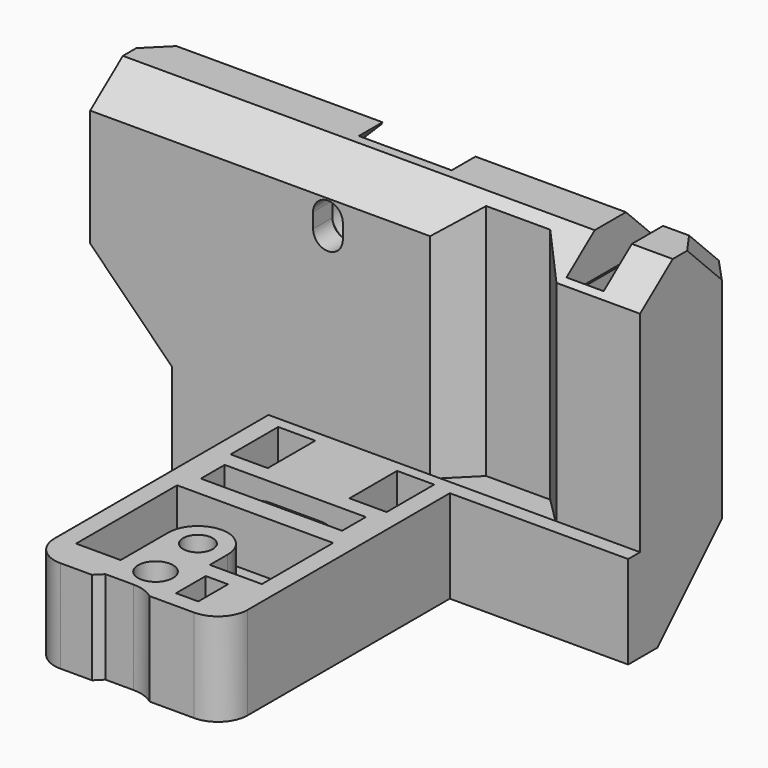
from build123d import *

# Parameters (mm, degrees)
PAD_DEPTH       = 45
SKETCH001_R     = 2
SKETCH001_R_2   = 2.35
SKETCH001_W     = 3
SKETCH001_H     = 5
SKETCH001_W_2   = 5
SKETCH001_H_2   = 15
POCKET_DEPTH    = 45.001
SKETCH002_W     = 45
SKETCH002_H     = 32.5
POCKET001_DEPTH = 74.001
POCKET002_DEPTH = 33
SKETCH004_R     = 2.35
POCKET003_DEPTH = 9
SKETCH005_W     = 47.5
SKETCH005_H     = 20
POCKET004_DEPTH = 4
POCKET005_DEPTH = 30
SKETCH007_W     = 19
SKETCH007_H     = 4
POCKET006_DEPTH = 3
POCKET007_DEPTH = 4
POCKET008_DEPTH = 55.751
POCKET009_DEPTH = 15
PAD001_DEPTH    = 9
POCKET010_DEPTH = 45.001
SKETCH013_R     = 2.75
POCKET011_DEPTH = 0.75
SKETCH014_R     = 2.75
POCKET012_DEPTH = 0.75
SKETCH015_W     = 24
SKETCH015_H     = 12.5
PAD002_DEPTH    = 2
POCKET013_DEPTH = 74.001
CHAMFER_SIZE    = 2
FILLET_R        = 4
CHAMFER001_SIZE = 1.5
CHAMFER002_SIZE = 1
FILLET001_R     = 3
FILLET002_R     = 5
FILLET003_R     = 3.99
FILLET004_R     = 4
POCKET014_DEPTH = 55.751
POCKET015_DEPTH = 2
CHAMFER003_SIZE = 1.49
SKETCH019_W     = 5
SKETCH019_H     = 8
POCKET016_DEPTH = 7


with BuildPart() as part:
    # Sketch → Pad (new body)
    with BuildSketch(Plane.XY):
        Polygon((74, -15.75), (74, 0), (0, 0), (0, -15.75), (24, -15.75), (24, -55.75), (50, -55.75), (50, -15.75), align=None)
    extrude(amount=PAD_DEPTH)

    # Sketch001 (on Face9 of Pad) → Pocket (cut, through all)
    with BuildSketch(Plane(origin=(0, 0, 0), x_dir=(1, 0, 0), z_dir=(0, 0, -1))):
        with Locations((36.5, 43.25)):
            Circle(SKETCH001_R)
        with Locations((37, 51)):
            Circle(SKETCH001_R_2)
        with Locations((43.25, 51)):
            Rectangle(SKETCH001_W, SKETCH001_H)
        Polygon((0, 8), (8, 0), (0, 0), align=None)
        with Locations((66, 7.5)):
            Rectangle(SKETCH001_W_2, SKETCH001_H_2)
    extrude(amount=-POCKET_DEPTH, mode=Mode.SUBTRACT)

    # Sketch002 (on Face1 of Pocket) → Pocket001 (cut, through all)
    with BuildSketch(Plane.YZ.offset(74)):
        with Locations((-38.25, 28.75)):
            Rectangle(SKETCH002_W, SKETCH002_H)
    extrude(amount=-POCKET001_DEPTH, mode=Mode.SUBTRACT)

    # Sketch003 (on Face4 of Pocket001) → Pocket002 (cut)
    with BuildSketch(Plane.XY.offset(45)):
        Polygon((45.75, -15.75), (49.9375, -11.5625), (58.5625, -11.5625), (62.75, -15.75), align=None)
    extrude(amount=-POCKET002_DEPTH, mode=Mode.SUBTRACT)

    # Sketch004 (on Face15 of Pocket002) → Pocket003 (cut)
    with BuildSketch(Plane(origin=(0, 0, 0), x_dir=(-1, 0, 0), z_dir=(0, 1, 0))):
        with Locations((-57, 21)):
            Circle(SKETCH004_R)
        with Locations((-17, 21)):
            Circle(SKETCH004_R)
        Polygon((-43.25, 45), (-53.25, 35), (-53.25, 0), (-20.75, 0), (-20.75, 35), (-30.75, 45), align=None)
    extrude(amount=-POCKET003_DEPTH, mode=Mode.SUBTRACT)

    # Sketch005 (on Face19 of Pocket003) → Pocket004 (cut)
    with BuildSketch(Plane(origin=(0, 0, 0), x_dir=(-1, 0, 0), z_dir=(0, 1, 0))):
        with Locations((-37, 35)):
            Rectangle(SKETCH005_W, SKETCH005_H)
    extrude(amount=-POCKET004_DEPTH, mode=Mode.SUBTRACT)

    # Sketch006 (on Face17 of Pocket004) → Pocket005 (cut)
    with BuildSketch(Plane(origin=(0, -9, 0), x_dir=(-1, 0, 0), z_dir=(0, 1, 0))):
        with BuildLine():
            ThreePointArc((-32.5, 4), (-37, 8.5), (-41.5, 4))
            Line((-41.5, 4), (-41.5, 0))
            ThreePointArc((-41.5, 0), (-37, -4.5), (-32.5, 0))
            Line((-32.5, 4), (-32.5, 0))
        make_face()
    extrude(amount=-POCKET005_DEPTH, mode=Mode.SUBTRACT)

    # Sketch007 (on Face4 of Pocket005) → Pocket006 (cut)
    with BuildSketch(Plane(origin=(0, 0, 0), x_dir=(1, 0, 0), z_dir=(0, 0, -1))):
        with Locations((37, 29.5)):
            Rectangle(SKETCH007_W, SKETCH007_H)
    extrude(amount=-POCKET006_DEPTH, mode=Mode.SUBTRACT)

    # Sketch008 (on Face23 of Pocket006) → Pocket007 (cut)
    with BuildSketch(Plane(origin=(0, -31.5, 0), x_dir=(-1, 0, 0), z_dir=(0, 1, 0))):
        Polygon((-43.5, 3), (-43.5, 10), (-30.5, 10), (-30.5, 3), (-27.5, 3), (-27.5, 12.5), (-46.5, 12.5), (-46.5, 3), align=None)
    extrude(amount=POCKET007_DEPTH, mode=Mode.SUBTRACT)

    # Sketch009 (on Face14 of Pocket007) → Pocket008 (cut, through all)
    with BuildSketch(Plane(origin=(0, 0, 0), x_dir=(-1, 0, 0), z_dir=(0, 1, 0))):
        Polygon((0, 25), (-11, 14), (-11, 0), (0, 0), align=None)
    extrude(amount=-POCKET008_DEPTH, mode=Mode.SUBTRACT)

    # Sketch010 (on Face23 of Pocket008) → Pocket009 (cut)
    with BuildSketch(Plane(origin=(0, 0, 0), x_dir=(-1, 0, 0), z_dir=(0, 1, 0))):
        Polygon((-63.5, 39.25), (-62.25, 38), (-62.25, 27), (-63.5, 27), align=None)
    extrude(amount=-POCKET009_DEPTH, mode=Mode.SUBTRACT)

    # Sketch011 (on Face15 of Pocket009) → Pad001 (join)
    with BuildSketch(Plane.YZ.offset(32.5)):
        Polygon((-39, 0), (-39, 8.5), (-30.5, 8.5), align=None)
    extrude(amount=PAD001_DEPTH)

    # Sketch012 (on Face4 of Pad001) → Pocket010 (cut, through all)
    with BuildSketch(Plane(origin=(0, 0, 0), x_dir=(1, 0, 0), z_dir=(0, 0, -1))):
        with BuildLine():
            Line((30, 58), (33.25, 54.75))
            Line((33.25, 54.75), (37, 54.75))
            ThreePointArc((37, 54.75), (40.535534, 56.214466), (42, 59.75))
            Line((30, 59.75), (42, 59.75))
            Line((30, 58), (30, 59.75))
        make_face()
    extrude(amount=-POCKET010_DEPTH, mode=Mode.SUBTRACT)

    # Sketch013 (on Face4 of Pocket010) → Pocket011 (cut)
    with BuildSketch(Plane(origin=(0, 0, 0), x_dir=(1, 0, 0), z_dir=(0, 0, -1))):
        with Locations((37, 51)):
            Circle(SKETCH013_R)
    extrude(amount=-POCKET011_DEPTH, mode=Mode.SUBTRACT)

    # Sketch014 (on Face30 of Pocket011) → Pocket012 (cut)
    with BuildSketch(Plane(origin=(0, 0, 0), x_dir=(-1, 0, 0), z_dir=(0, 1, 0))):
        with Locations((-57, 21)):
            Circle(SKETCH014_R)
        with Locations((-17, 21)):
            Circle(SKETCH014_R)
    extrude(amount=-POCKET012_DEPTH, mode=Mode.SUBTRACT)

    # Sketch015 (on Face2 of Pocket012) → Pad002 (join)
    with BuildSketch(Plane.XZ.offset(15.75)):
        with Locations((62, 6.25)):
            Rectangle(SKETCH015_W, SKETCH015_H)
    extrude(amount=PAD002_DEPTH)

    # Sketch016 (on Face62 of Pad002) → Pocket013 (cut, through all)
    with BuildSketch(Plane.YZ.offset(74)):
        Polygon((-10, 0), (0, 10), (0, 0), align=None)
        Polygon((-5, 45), (0, 40), (0, 45), align=None)
        Polygon((-15.75, 40.75), (-10.25, 45), (-15.75, 45), align=None)
    extrude(amount=-POCKET013_DEPTH, mode=Mode.SUBTRACT)

    # Chamfer
    chamfer_edges = [part.edges().sort_by_distance(p)[0] for p in [
        (74, 0, 25),
        (74, -5, 5),
        (74, -2.5, 42.5),
    ]]
    chamfer(chamfer_edges, length=CHAMFER_SIZE)

    # Fillet
    fillet_edges = [part.edges().sort_by_distance(p)[0] for p in [
        (37, -9, 8.5),
    ]]
    fillet(fillet_edges, radius=FILLET_R)

    # Chamfer001
    chamfer001_edges = [part.edges().sort_by_distance(p)[0] for p in [
        (34.5, -43.25, 0),
    ]]
    chamfer(chamfer001_edges, length=CHAMFER001_SIZE)

    # Chamfer002
    chamfer002_edges = [part.edges().sort_by_distance(p)[0] for p in [
        (41.75, -51, 0),
        (43.25, -53.5, 0),
        (44.75, -51, 0),
        (43.25, -48.5, 0),
    ]]
    chamfer(chamfer002_edges, length=CHAMFER002_SIZE)

    # Fillet001
    fillet001_edges = [part.edges().sort_by_distance(p)[0] for p in [
        (43.5, -29.5, 10),
        (30.5, -29.5, 10),
    ]]
    fillet(fillet001_edges, radius=FILLET001_R)

    # Fillet002
    fillet002_edges = [part.edges().sort_by_distance(p)[0] for p in [
        (13.25, -2, 25),
        (60.75, -2, 25),
    ]]
    fillet(fillet002_edges, radius=FILLET002_R)

    # Fillet003
    fillet003_edges = [part.edges().sort_by_distance(p)[0] for p in [
        (13.25, -4, 37),
        (60.75, -4, 37),
    ]]
    fillet(fillet003_edges, radius=FILLET003_R)

    # Fillet004
    fillet004_edges = [part.edges().sort_by_distance(p)[0] for p in [
        (24, -55.75, 6.25),
        (50, -55.75, 6.25),
    ]]
    fillet(fillet004_edges, radius=FILLET004_R)

    # Sketch017 (on Face56 of Fillet004) → Pocket014 (cut, through all)
    with BuildSketch(Plane(origin=(0, 0, 0), x_dir=(-1, 0, 0), z_dir=(0, 1, 0))):
        with BuildLine():
            ThreePointArc((-30, 38.5), (-32, 40.5), (-34, 38.5))
            Line((-34, 38.5), (-34, 36.5))
            ThreePointArc((-34, 36.5), (-32, 34.5), (-30, 36.5))
            Line((-30, 38.5), (-30, 36.5))
        make_face()
    extrude(amount=-POCKET014_DEPTH, mode=Mode.SUBTRACT)

    # Sketch018 (on Face50 of Pocket014) → Pocket015 (cut)
    with BuildSketch(Plane(origin=(0, -9, 0), x_dir=(-1, 0, 0), z_dir=(0, 1, 0))):
        with BuildLine():
            ThreePointArc((-28.5, 38.5), (-32, 42), (-35.5, 38.5))
            Line((-35.5, 38.5), (-35.5, 36.5))
            ThreePointArc((-35.5, 36.5), (-32, 33), (-28.5, 36.5))
            Line((-28.5, 38.5), (-28.5, 36.5))
        make_face()
    extrude(amount=-POCKET015_DEPTH, mode=Mode.SUBTRACT)

    # Chamfer003
    chamfer003_edges = [part.edges().sort_by_distance(p)[0] for p in [
        (32, -11, 40.5),
    ]]
    chamfer(chamfer003_edges, length=CHAMFER003_SIZE)

    # Sketch019 (on Face10 of Chamfer003) → Pocket016 (cut)
    with BuildSketch(Plane.XY.offset(12.5)):
        with BuildLine():
            Line((26.5, -51.25), (26.5, -34.25))
            Line((26.5, -34.25), (47.5, -34.25))
            Line((47.5, -34.25), (47.5, -46.25))
            Line((47.5, -46.25), (40.5, -46.25))
            Line((40.5, -46.25), (40.5, -43.25))
            ThreePointArc((40.5, -43.25), (36.5, -39.25), (32.5, -43.25))
            Line((32.5, -43.25), (32.5, -51.25))
            Line((32.5, -51.25), (26.5, -51.25))
        make_face()
        with Locations((29, -21.25)):
            Rectangle(SKETCH019_W, SKETCH019_H)
        with Locations((45, -21.25)):
            Rectangle(SKETCH019_W, SKETCH019_H)
    extrude(amount=-POCKET016_DEPTH, mode=Mode.SUBTRACT)


solid = part.part
